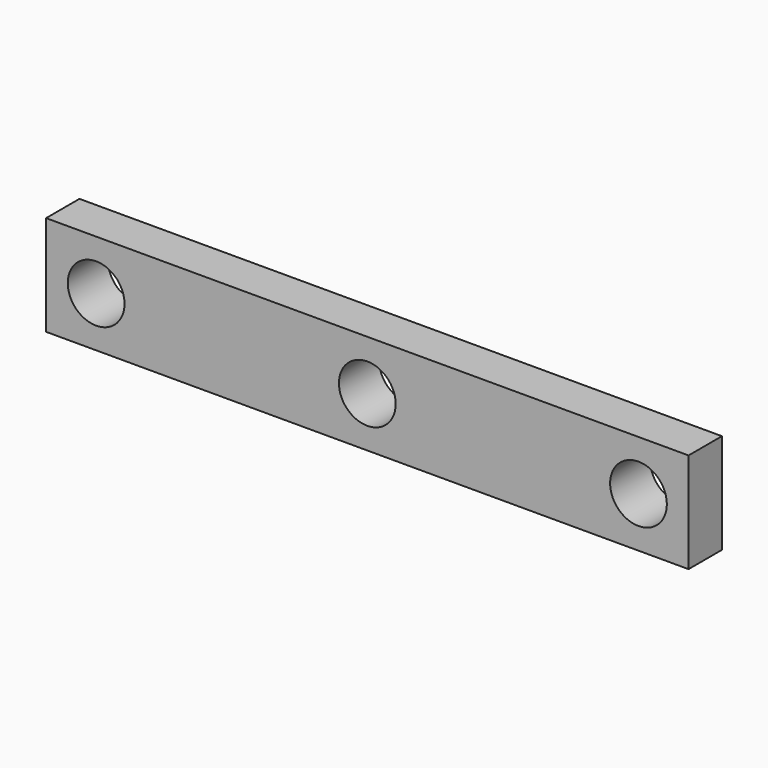
from build123d import *

# Parameters (mm, degrees)
F0_W     = 38.5
F0_H     = 6
F0_R     = 1.7
F1_DEPTH = 3
F2_SIZE  = 0.5


with BuildPart() as f1:
    # F0 (on Front) → F1 (new body)
    with BuildSketch(Plane.XZ):
        Rectangle(F0_W, F0_H)
        with Locations((-16.25, 0)):
            Circle(F0_R, mode=Mode.SUBTRACT)
        Circle(F0_R, mode=Mode.SUBTRACT)
        with Locations((16.25, 0)):
            Circle(F0_R, mode=Mode.SUBTRACT)
    extrude(amount=F1_DEPTH)

    # F2
    f2_edges = [f1.edges().sort_by_distance(p)[0] for p in [
        (0, 0, -3),
        (19.25, 0, 0),
        (0, 0, 3),
        (-19.25, 0, 0),
    ]]
    chamfer(f2_edges, length=F2_SIZE)


solid = f1.part
